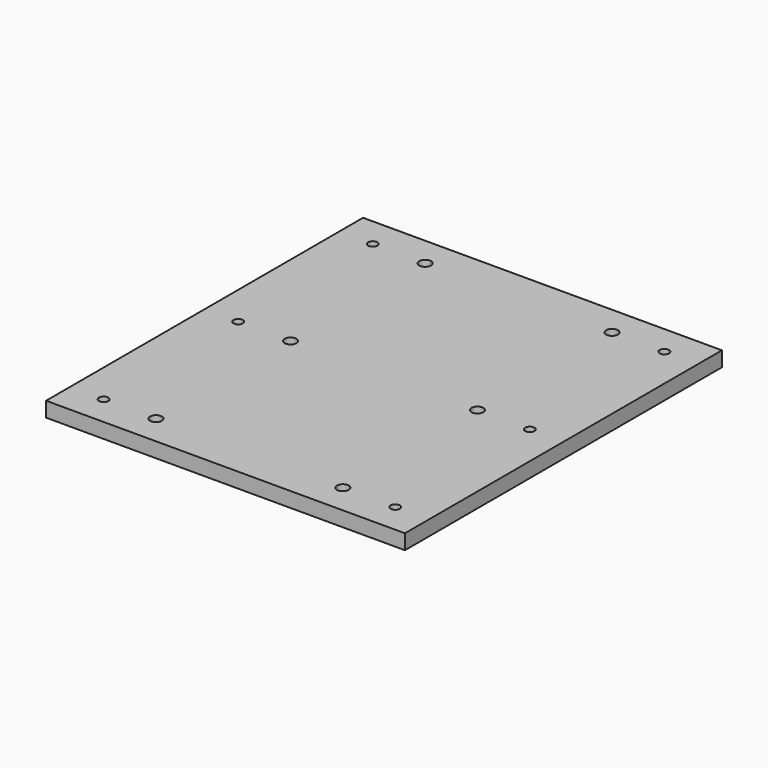
from build123d import *

# Parameters (mm, degrees)
F0_W     = 304.8
F0_H     = 336.55
F1_DEPTH = 12.7
F2_D     = 7.9375
F3_D     = 10.0838


with BuildPart() as f1:
    # F0 (on Top) → F1 (new body)
    with BuildSketch(Plane.XY):
        with Locations((152.4, 168.275)):
            Rectangle(F0_W, F0_H)
    extrude(amount=F1_DEPTH)

    # F2 (through all)
    with Locations(Plane(origin=(0, 0, 0), x_dir=(1, 0, 0), z_dir=(0, 0, -1))):
        with Locations((276.225, -25.4), (276.225, -311.15), (276.225, -168.275), (28.575, -168.275), (28.575, -311.15), (28.575, -25.4)):
            Hole(F2_D / 2)

    # F3 (through all)
    with Locations(Plane(origin=(0, 0, 0), x_dir=(1, 0, 0), z_dir=(0, 0, -1))):
        with Locations((231.775, -25.4), (231.775, -168.275), (231.775, -311.15), (73.025, -311.15), (73.025, -168.275), (73.025, -25.4)):
            Hole(F3_D / 2)


solid = f1.part
